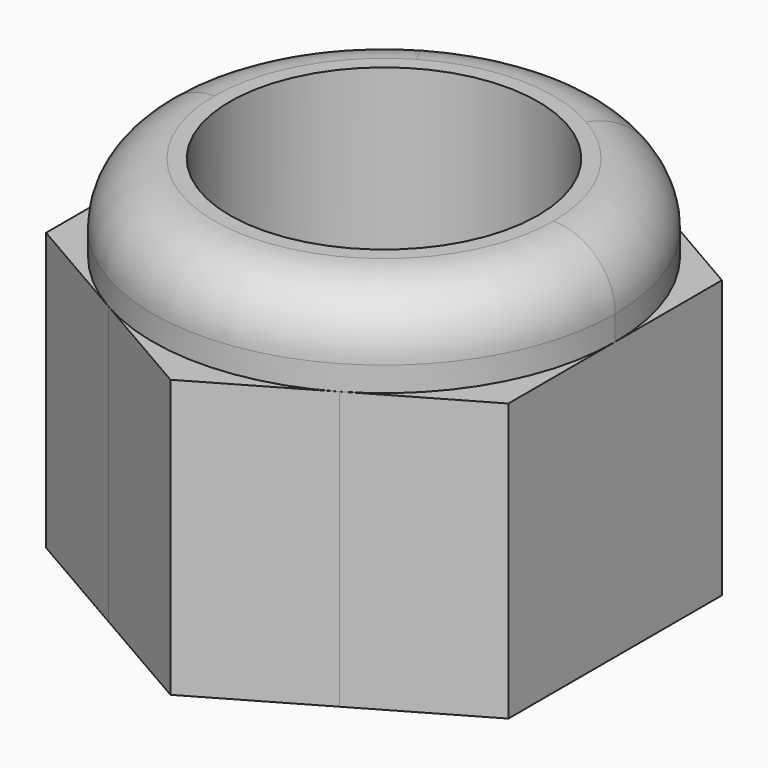
from build123d import *

# Parameters (mm, degrees)
F0_R     = 6.35
F1_DEPTH = 11.43
F2_DEPTH = 14.986
F3_R     = 2.54


with BuildPart() as f1:
    # F0 (on Top) → F1 (new body)
    with BuildSketch(Plane.XY):
        with BuildLine():
            ThreePointArc((4.7624999017, -8.2488920278), (8.2488919427, -4.7625000491), (9.525, 0))
            ThreePointArc((9.525, 0), (8.2488920139, 4.7624999258), (4.7625001484, 8.2488918854))
            ThreePointArc((4.7625001484, 8.2488918854), (2.371e-07, 9.525), (-4.7624997378, 8.2488921224))
            ThreePointArc((-4.7624997378, 8.2488921224), (-8.2488918954, 4.7625001311), (-9.525, 0))
            ThreePointArc((-9.525, 0), (-8.2488919427, -4.7625000491), (-4.7624999017, -8.2488920278))
            ThreePointArc((-4.7624999017, -8.2488920278), (0, -9.525), (4.7624999017, -8.2488920278))
        make_face()
        Circle(F0_R, mode=Mode.SUBTRACT)
        with BuildLine():
            ThreePointArc((-9.525, 0), (-8.2488918954, 4.7625001311), (-4.7624997378, 8.2488921224))
            Line((-4.7624997378, 8.2488921224), (-9.525, 5.499261314))
            Line((-9.525, 5.499261314), (-9.525, 0))
        make_face()
        with BuildLine():
            ThreePointArc((-4.7624997378, 8.2488921224), (2.371e-07, 9.525), (4.7625001484, 8.2488918854))
            Line((4.7625001484, 8.2488918854), (0, 10.9985226281))
            Line((0, 10.9985226281), (-4.7624997378, 8.2488921224))
        make_face()
        with BuildLine():
            ThreePointArc((4.7625001484, 8.2488918854), (8.2488920139, 4.7624999258), (9.525, 0))
            Line((9.525, 0), (9.525, 5.499261314))
            Line((9.525, 5.499261314), (4.7625001484, 8.2488918854))
        make_face()
        with BuildLine():
            Line((9.525, -5.499261314), (9.525, 0))
            ThreePointArc((9.525, 0), (8.2488919427, -4.7625000491), (4.7624999017, -8.2488920278))
            Line((4.7624999017, -8.2488920278), (9.525, -5.499261314))
        make_face()
        with BuildLine():
            Line((0, -10.9985226281), (4.7624999017, -8.2488920278))
            ThreePointArc((4.7624999017, -8.2488920278), (0, -9.525), (-4.7624999017, -8.2488920278))
            Line((-4.7624999017, -8.2488920278), (0, -10.9985226281))
        make_face()
        with BuildLine():
            Line((-9.525, -5.499261314), (-4.7624999017, -8.2488920278))
            ThreePointArc((-4.7624999017, -8.2488920278), (-8.2488919427, -4.7625000491), (-9.525, 0))
            Line((-9.525, 0), (-9.525, -5.499261314))
        make_face()
    extrude(amount=F1_DEPTH)

    # F0 (on Top) → F2 (join)
    with BuildSketch(Plane.XY):
        with BuildLine():
            ThreePointArc((4.7624999017, -8.2488920278), (8.2488919427, -4.7625000491), (9.525, 0))
            ThreePointArc((9.525, 0), (8.2488920139, 4.7624999258), (4.7625001484, 8.2488918854))
            ThreePointArc((4.7625001484, 8.2488918854), (2.371e-07, 9.525), (-4.7624997378, 8.2488921224))
            ThreePointArc((-4.7624997378, 8.2488921224), (-8.2488918954, 4.7625001311), (-9.525, 0))
            ThreePointArc((-9.525, 0), (-8.2488919427, -4.7625000491), (-4.7624999017, -8.2488920278))
            ThreePointArc((-4.7624999017, -8.2488920278), (0, -9.525), (4.7624999017, -8.2488920278))
        make_face()
        Circle(F0_R, mode=Mode.SUBTRACT)
    extrude(amount=F2_DEPTH)

    # F3
    f3_edges = [f1.edges().sort_by_distance(p)[0] for p in [
        (-9.525, 0, 14.986),
    ]]
    fillet(f3_edges, radius=F3_R)


solid = f1.part
